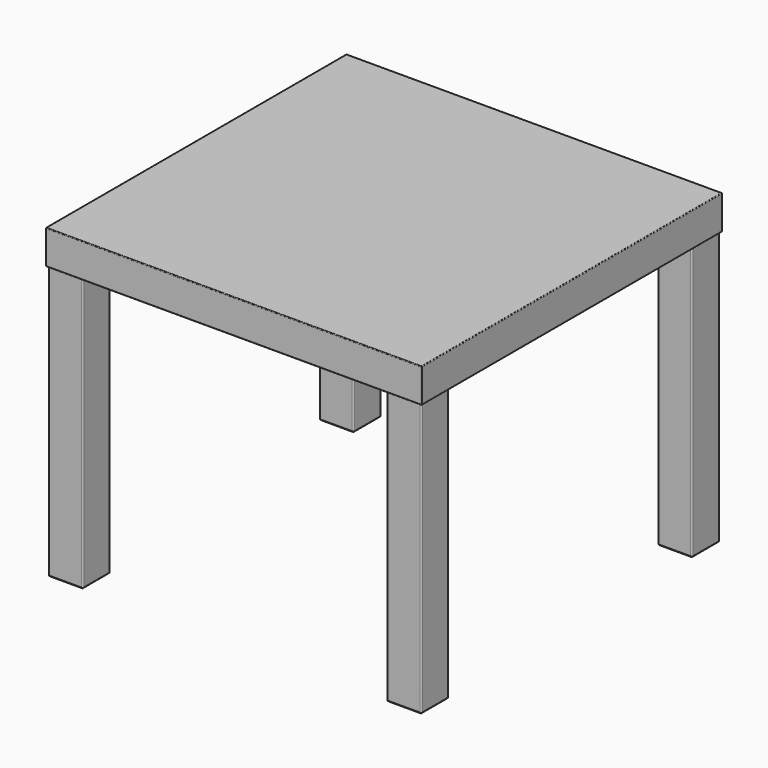
from build123d import *

# Parameters (mm, degrees)
F0_W     = 275
F0_H     = 275
F0_W_2   = 50.5
F0_H_2   = 50.5
F1_DEPTH = 50
F2_DEPTH = 400
F3_SIZE  = 2
F4_R     = 2
F5_R     = 1


with BuildPart() as f1:
    # F0 (on Top) → F1 (new body)
    with BuildSketch(Plane.XY):
        with Locations((-137.5, -137.5)):
            Rectangle(F0_W, F0_H)
        with Locations((-247.65, -247.65)):
            Rectangle(F0_W_2, F0_H_2, mode=Mode.SUBTRACT)
        with Locations((-247.65, -247.65)):
            Rectangle(F0_W_2, F0_H_2)
    extrude(amount=F1_DEPTH)

    # F0 (on Top) → F2 (join)
    with BuildSketch(Plane.XY):
        with Locations((-247.65, -247.65)):
            Rectangle(F0_W_2, F0_H_2)
    extrude(amount=-F2_DEPTH)

    # F3
    f3_edges = [f1.edges().sort_by_distance(p)[0] for p in [
        (-272.9, -247.65, -400),
        (-247.65, -272.9, -400),
        (-222.4, -247.65, -400),
        (-247.65, -222.4, -400),
    ]]
    chamfer(f3_edges, length=F3_SIZE)

    # F4
    f4_edges = [f1.edges().sort_by_distance(p)[0] for p in [
        (-272.9, -272.9, -199),
        (-222.4, -272.9, -199),
        (-272.9, -222.4, -199),
        (-222.4, -222.4, -199),
    ]]
    fillet(f4_edges, radius=F4_R)

    # F5
    f5_edges = [f1.edges().sort_by_distance(p)[0] for p in [
        (-275, -137.5, 50),
        (-275, -137.5, 0),
        (-275, -275, 25),
        (-137.5, -275, 50),
        (-137.5, -275, 0),
    ]]
    fillet(f5_edges, radius=F5_R)

    # F6: F1 across face


with BuildPart() as f1_1:
    add(f1.part)
    add(f1.part.mirror(Plane(origin=(0, -137.4957148019, 25), x_dir=(0, 1, 0), z_dir=(1, 0, 0))))

    # F7: F1 across face


with BuildPart() as f1_2:
    add(f1_1.part)
    add(f1_1.part.mirror(Plane(origin=(0, 0, 25), x_dir=(-1, 0, 0), z_dir=(0, 1, 0))))


solid = f1_2.part
